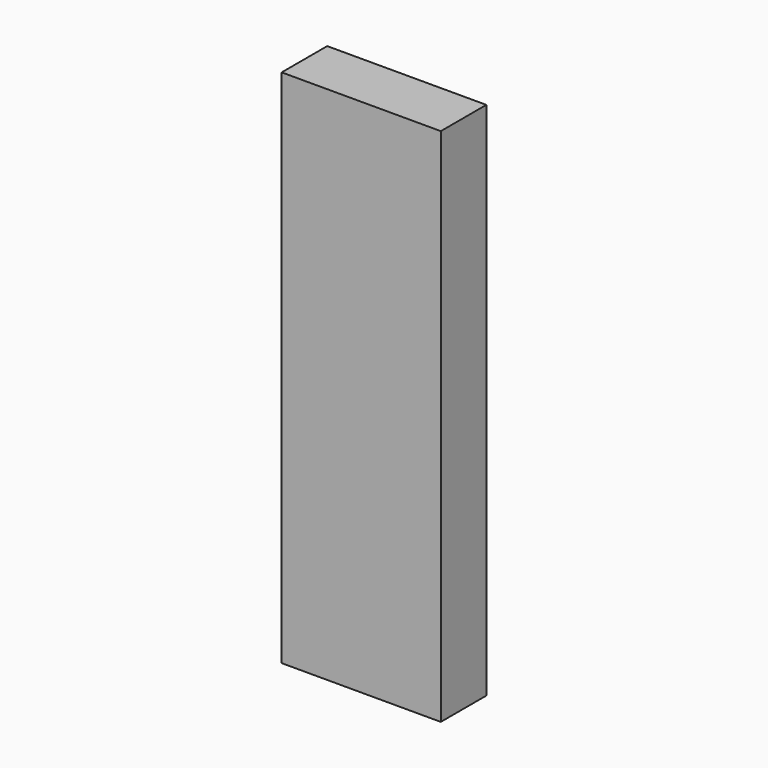
from build123d import *

# Parameters (mm, degrees)
F0_W     = 39.057704
F0_H     = 127.666224
F1_DEPTH = 13.97


with BuildPart() as f1:
    # F0 (on Front) → F1 (new body)
    with BuildSketch(Plane.XZ):
        with Locations((-1e-06, -2.47754)):
            Rectangle(F0_W, F0_H)
    extrude(amount=F1_DEPTH)


solid = f1.part
